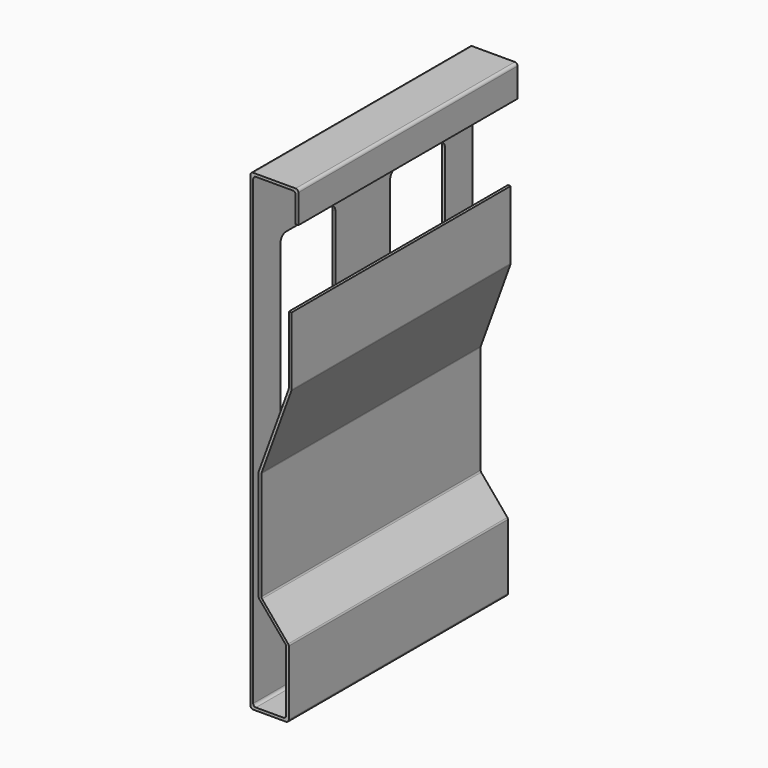
from build123d import *

# Parameters (mm, degrees)
F1_DEPTH = 200
F2_R     = 2
F4_DEPTH = 2


with BuildPart() as f1:
    # F0 (on Front) → F1 (new body)
    with BuildSketch(Plane.XZ):
        Polygon((35, 0), (0, 0), (0, -345), (28, -345), (28, -295), (8, -271.164928), (8, -191.164928), (30, -130.720425), (30, -80.720425), (28, -80.720425), (28, -130.367771), (6, -190.812274), (6, -271.892869), (26, -295.72794), (26, -343), (2, -343), (2, -2), (33, -2), (33, -23), (35, -23), align=None)
    extrude(amount=F1_DEPTH)

    # F2
    f2_edges = [f1.edges().sort_by_distance(p)[0] for p in [
        (0, -100, 0),
        (35, -100, 0),
        (33, -100, -2),
        (2, -100, -2),
        (0, -100, -345),
        (2, -100, -343),
        (28, -100, -345),
        (26, -100, -343),
        (26, -100, -295.72794),
        (28, -100, -295),
        (8, -100, -271.164928),
        (6, -100, -271.892869),
        (6, -100, -190.812274),
        (8, -100, -191.164928),
        (30, -100, -130.720425),
        (28, -100, -130.367771),
    ]]
    fillet(f2_edges, radius=F2_R)

    # F3 (on face) → F4 (cut)
    with BuildSketch(Plane(origin=(0, 0, 0), x_dir=(0, -1, 0), z_dir=(-1, 0, 0))):
        with BuildLine():
            Line((70, -50), (30, -50))
            ThreePointArc((30, -50), (26.464466, -51.464466), (25, -55))
            Line((25, -55), (25, -290))
            ThreePointArc((25, -290), (26.464466, -293.535534), (30, -295))
            Line((30, -295), (70, -295))
            ThreePointArc((70, -295), (73.535534, -293.535534), (75, -290))
            Line((75, -290), (75, -55))
            ThreePointArc((75, -55), (73.535534, -51.464466), (70, -50))
        make_face()
        with BuildLine():
            ThreePointArc((175, -55), (173.535534, -51.464466), (170, -50))
            Line((170, -50), (130, -50))
            ThreePointArc((130, -50), (126.464466, -51.464466), (125, -55))
            Line((125, -55), (125, -290))
            ThreePointArc((125, -290), (126.464466, -293.535534), (130, -295))
            Line((130, -295), (170, -295))
            ThreePointArc((170, -295), (173.535534, -293.535534), (175, -290))
            Line((175, -290), (175, -55))
        make_face()
    extrude(amount=-F4_DEPTH, mode=Mode.SUBTRACT)


solid = f1.part
